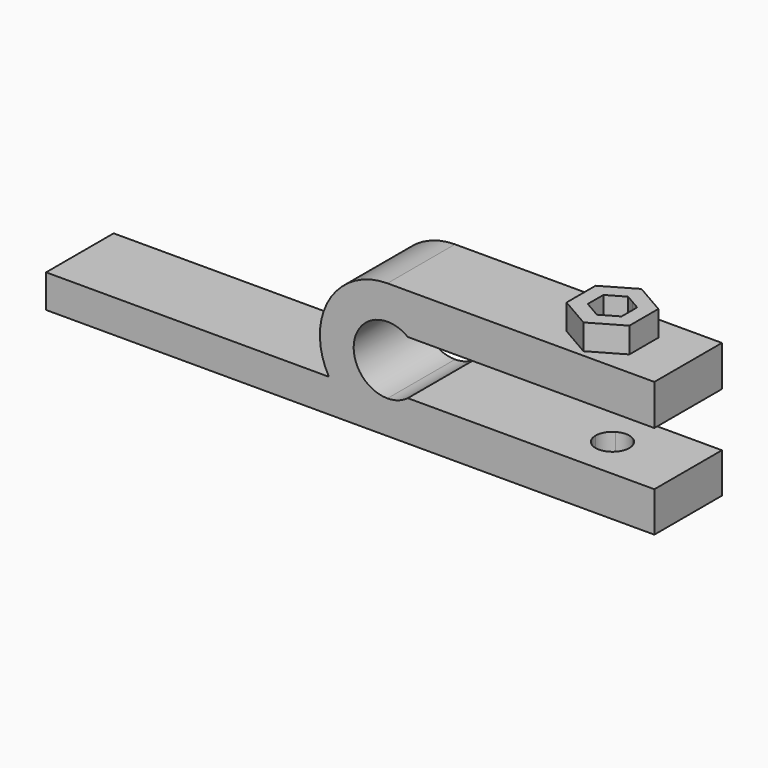
from build123d import *

# Parameters (mm, degrees)
F1_DEPTH = 5
F3_DEPTH = 3
F4_DEPTH = 16


with BuildPart() as f1:
    # F0 (on Front) → F1 (new body, symmetric)
    with BuildSketch(Plane.XZ):
        with BuildLine():
            ThreePointArc((0, -4), (-4, 0), (0, 4))
            Line((0, 4), (0, 8))
            ThreePointArc((0, 8), (-6.9282032303, 4), (-6.9282032303, -4))
            Line((-6.9282032303, -4), (0, -4))
        make_face()
        with BuildLine():
            Line((31.6095426679, 8), (0, 8))
            ThreePointArc((0, 8), (4, 6.9282032303), (6.9282032303, 4))
            Line((6.9282032303, 4), (31.6095426679, 4))
            Line((31.6095426679, 4), (31.6095426679, 8))
        make_face()
        with BuildLine():
            Line((0, 8), (0, 4))
            Line((0, 4), (2.413712136, 4))
            Line((2.413712136, 4), (6.9282032303, 4))
            ThreePointArc((6.9282032303, 4), (4, 6.9282032303), (0, 8))
        make_face()
        with BuildLine():
            Line((31.6095426679, -4), (6.9282032303, -4))
            ThreePointArc((6.9282032303, -4), (4.4598401279, -6.6415228701), (1.0806620306, -7.9266745597))
            Line((1.0806620306, -7.9266745597), (31.6095426679, -7.9266745597))
            Line((31.6095426679, -7.9266745597), (31.6095426679, -4))
        make_face()
        with BuildLine():
            ThreePointArc((-1.0806620306, -7.9266745597), (-4.4598401279, -6.6415228701), (-6.9282032303, -4))
            Line((-6.9282032303, -4), (-40.4233634472, -4))
            Line((-40.4233634472, -4), (-40.4233634472, -7.9266745597))
            Line((-40.4233634472, -7.9266745597), (-1.0806620306, -7.9266745597))
        make_face()
        with BuildLine():
            Line((0, -7.9266745597), (0, -4))
            Line((0, -4), (-6.9282032303, -4))
            ThreePointArc((-6.9282032303, -4), (-4.4598401279, -6.6415228701), (-1.0806620306, -7.9266745597))
            Line((-1.0806620306, -7.9266745597), (0, -7.9266745597))
        make_face()
        with BuildLine():
            Line((2.413712136, -4), (0, -4))
            Line((0, -4), (0, -7.9266745597))
            Line((0, -7.9266745597), (1.0806620306, -7.9266745597))
            ThreePointArc((1.0806620306, -7.9266745597), (4.4598401279, -6.6415228701), (6.9282032303, -4))
            Line((6.9282032303, -4), (2.413712136, -4))
        make_face()
        with BuildLine():
            Line((2.413712136, 4), (2.413712136, 3.1896698457))
            Line((2.413712136, 3.1896698457), (7.3366209031, 3.1896698457))
            ThreePointArc((7.3366209031, 3.1896698457), (7.1439107377, 3.6006304131), (6.9282032303, 4))
            Line((6.9282032303, 4), (2.413712136, 4))
        make_face()
        with BuildLine():
            ThreePointArc((6.9282032303, 4), (7.1439107377, 3.6006304131), (7.3366209031, 3.1896698457))
            Line((7.3366209031, 3.1896698457), (31.6095426679, 3.1896698457))
            Line((31.6095426679, 3.1896698457), (31.6095426679, 4))
            Line((31.6095426679, 4), (6.9282032303, 4))
        make_face()
        with BuildLine():
            Line((7.3366209031, -3.1896698457), (2.413712136, -3.1896698457))
            Line((2.413712136, -3.1896698457), (2.413712136, -4))
            Line((2.413712136, -4), (6.9282032303, -4))
            ThreePointArc((6.9282032303, -4), (7.1439107377, -3.6006304131), (7.3366209031, -3.1896698457))
        make_face()
        with BuildLine():
            Line((2.413712136, -4), (2.413712136, -3.1896698457))
            ThreePointArc((2.413712136, -3.1896698457), (1.2730515734, -3.7920099804), (0, -4))
            Line((0, -4), (2.413712136, -4))
        make_face()
        with BuildLine():
            ThreePointArc((0, 4), (1.2730515734, 3.7920099804), (2.413712136, 3.1896698457))
            Line((2.413712136, 3.1896698457), (2.413712136, 4))
            Line((2.413712136, 4), (0, 4))
        make_face()
        with BuildLine():
            Line((31.6095426679, -3.1896698457), (7.3366209031, -3.1896698457))
            ThreePointArc((7.3366209031, -3.1896698457), (7.1439107377, -3.6006304131), (6.9282032303, -4))
            Line((6.9282032303, -4), (31.6095426679, -4))
            Line((31.6095426679, -4), (31.6095426679, -3.1896698457))
        make_face()
    extrude(amount=F1_DEPTH, both=True)

    # F2 (on face) → F3 (join)
    with BuildSketch(Plane.XY.offset(8)):
        Polygon((26.3679362833, -2.1467979489), (26.3679362833, 2.1467979489), (22.6495731622, 4.2935958979), (18.931210041, 2.1467979489), (18.931210041, -2.1467979489), (22.6495731622, -4.2935958979), align=None)
        Polygon((23.6495732055, 1.7320507826), (24.6495731622, 1.1547005384), (24.6495731622, 0), (24.6495731622, -1.1547005384), (23.6495731174, -1.7320508334), (22.6495731622, -2.3094010768), (21.6495731189, -1.7320507826), (20.6495731622, -1.1547005384), (20.6495731622, 0), (20.6495731622, 1.1547005384), (21.6495731525, 1.732050802), (22.6495731622, 2.3094010768), align=None, mode=Mode.SUBTRACT)
    extrude(amount=F3_DEPTH)

    # F2 (on face) → F4 (cut)
    with BuildSketch(Plane.XY.offset(8)):
        with BuildLine():
            ThreePointArc((23.6495731174, -1.7320508334), (24.3816239568, -1.0000000224), (24.6495731622, 0))
            ThreePointArc((24.6495731622, 0), (24.3816239823, 0.9999999783), (23.6495732055, 1.7320507826))
            ThreePointArc((23.6495732055, 1.7320507826), (22.6495731816, 2), (21.6495731525, 1.732050802))
            ThreePointArc((21.6495731525, 1.732050802), (20.9175223518, 0.9999999952), (20.6495731622, 0))
            ThreePointArc((20.6495731622, 0), (20.9175223421, -0.9999999783), (21.6495731189, -1.7320507826))
            ThreePointArc((21.6495731189, -1.7320507826), (22.6495731113, -2), (23.6495731174, -1.7320508334))
        make_face()
    extrude(amount=-F4_DEPTH, mode=Mode.SUBTRACT)


solid = f1.part
